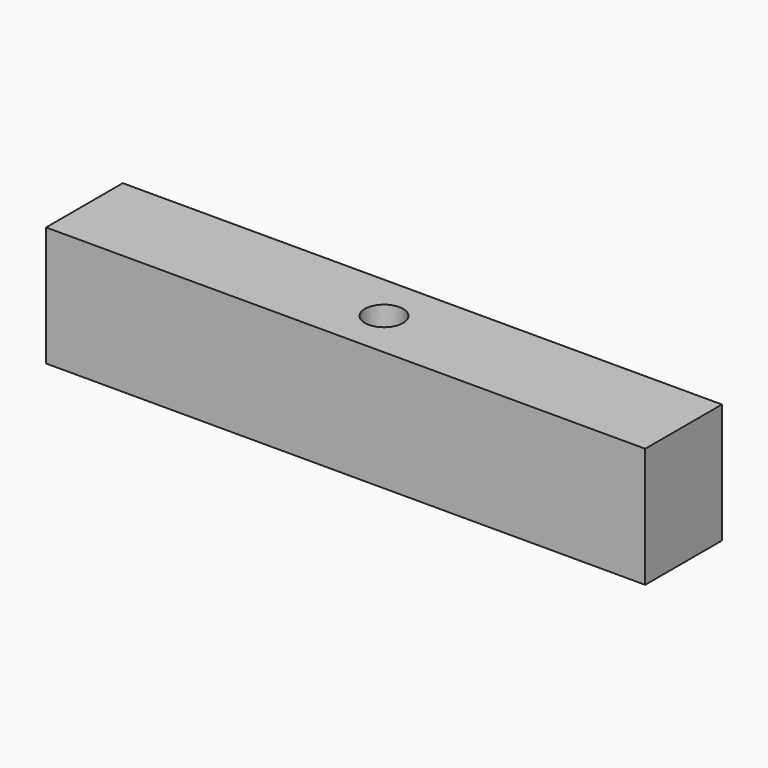
from build123d import *

# Parameters (mm, degrees)
F0_W     = 125
F0_H     = 25
F1_DEPTH = 10
F2_R     = 4
F3_DEPTH = 25


with BuildPart() as f1:
    # F0 (on Front) → F1 (new body, symmetric)
    with BuildSketch(Plane.XZ):
        Rectangle(F0_W, F0_H)
    extrude(amount=F1_DEPTH, both=True)

    # F2 (on face) → F3 (cut)
    with BuildSketch(Plane.XY.offset(12.5)):
        Circle(F2_R)
    extrude(amount=-F3_DEPTH, mode=Mode.SUBTRACT)


solid = f1.part
